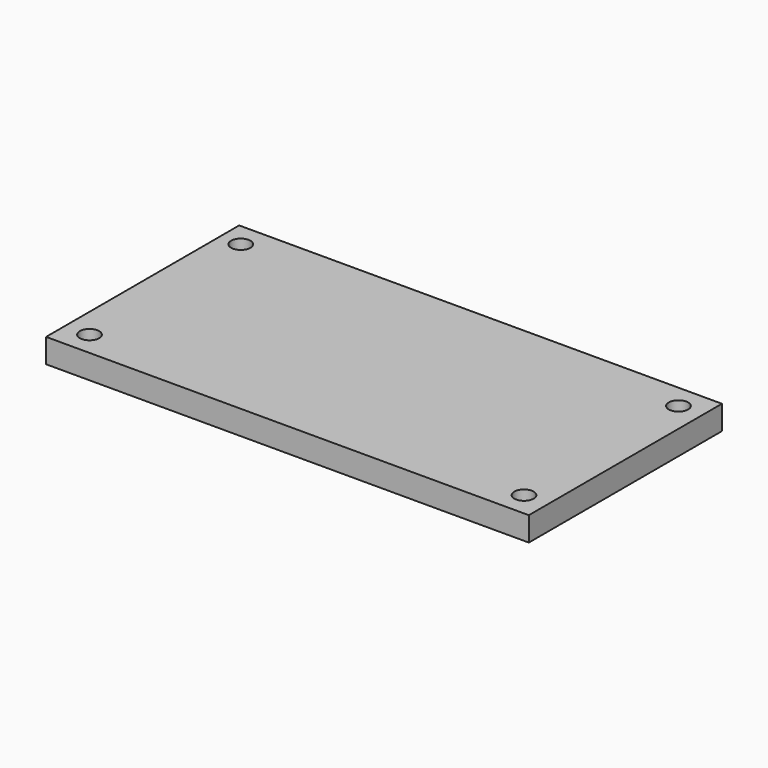
from build123d import *

# Parameters (mm, degrees)
F0_W     = 100
F0_H     = 50
F1_DEPTH = 5
F2_R     = 2
F3_DEPTH = 5


with BuildPart() as f1:
    # F0 (on Top) → F1 (new body)
    with BuildSketch(Plane.XY):
        with Locations((-3.548383, -3.669357)):
            Rectangle(F0_W, F0_H)
    extrude(amount=F1_DEPTH)

    # F2 (on face) → F3 (cut)
    with BuildSketch(Plane.XY.offset(5)):
        with Locations((-49.218256, 16.330643)):
            Circle(F2_R)
        with Locations((41.451617, 16.330643)):
            Circle(F2_R)
        with Locations((-48.548383, -23.669357)):
            Circle(F2_R)
        with BuildLine():
            ThreePointArc((39.451617, -23.669357), (41.451617, -25.669357), (43.451617, -23.669357))
            ThreePointArc((43.451617, -23.669357), (41.451617, -21.669357), (39.451617, -23.669357))
        make_face()
    extrude(amount=-F3_DEPTH, mode=Mode.SUBTRACT)


solid = f1.part
